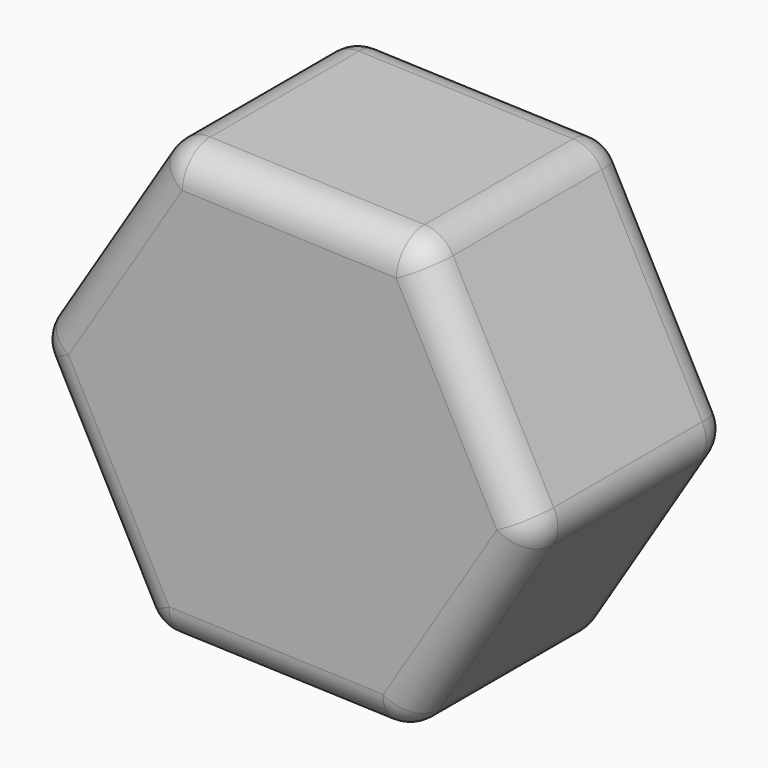
from build123d import *

# Parameters (mm, degrees)
F1_DEPTH = 19.05
F2_R     = 2.54


with BuildPart() as f1:
    # F0 (on Front) → F1 (new body)
    with BuildSketch(Plane.XZ):
        Polygon((-8.941854, 18.205428), (-19.038333, 2.05106), (-10.096479, -14.769932), (8.941854, -15.436555), (19.038333, 0.717813), (10.096479, 17.538804), align=None)
    extrude(amount=F1_DEPTH)

    # F2
    f2_edges = [f1.edges().sort_by_distance(p)[0] for p in [
        (14.567406, -19.05, 9.128309),
        (0.577313, -19.05, 17.872116),
        (10.096479, -9.525, 17.538804),
        (19.038333, -9.525, 0.717813),
        (13.990093, -19.05, -7.359371),
        (14.567406, 0, 9.128309),
        (13.990093, 0, -7.359371),
        (0.577313, 0, 17.872116),
        (-10.096479, -9.525, -14.769932),
        (-0.577313, 0, -15.103244),
        (-14.567406, 0, -6.359436),
        (-19.038333, -9.525, 2.05106),
        (-14.567406, -19.05, -6.359436),
        (8.941854, -9.525, -15.436555),
        (-0.577313, -19.05, -15.103244),
        (-13.990093, -19.05, 10.128244),
        (-8.941854, -9.525, 18.205428),
        (-13.990093, 0, 10.128244),
    ]]
    fillet(f2_edges, radius=F2_R)


solid = f1.part
